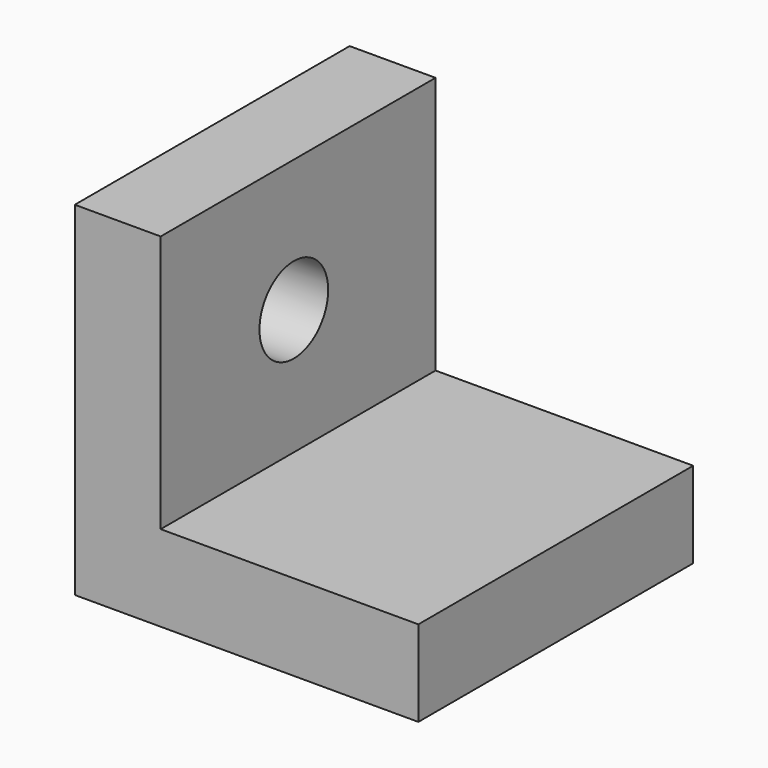
from build123d import *

# Parameters (mm, degrees)
F0_W     = 12.7
F0_H     = 50.8
F1_DEPTH = 50.8
F2_W     = 50.8
F2_H     = 12.7
F3_DEPTH = 50.8
F4_R     = 6.35
F5_DEPTH = 12.701


with BuildPart() as f1:
    # F0 (on Top) → F1 (new body)
    with BuildSketch(Plane.XY):
        with Locations((6.35, -25.4)):
            Rectangle(F0_W, F0_H)
    extrude(amount=F1_DEPTH)

    # F2 (on Right) → F3 (join)
    with BuildSketch(Plane.YZ):
        with Locations((-25.4, 6.35)):
            Rectangle(F2_W, F2_H)
    extrude(amount=F3_DEPTH)

    # F4 (on face) → F5 (cut, through all)
    with BuildSketch(Plane.YZ.offset(12.7)):
        with Locations((-26.194522, 31.251881)):
            Circle(F4_R)
    extrude(amount=-F5_DEPTH, mode=Mode.SUBTRACT)


solid = f1.part
